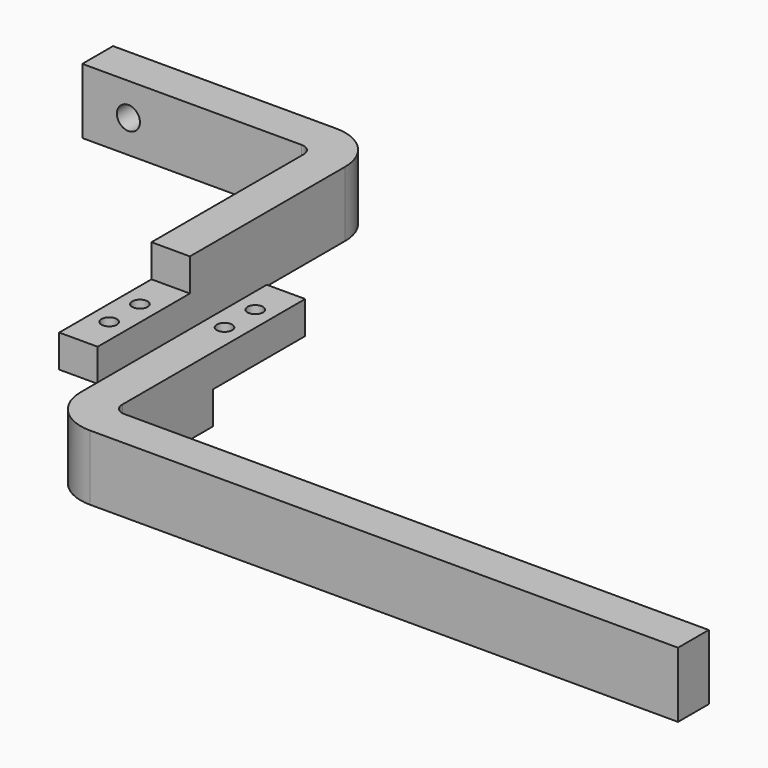
from build123d import *

# Parameters (mm, degrees)
PAD_DEPTH       = 8.5
SKETCH002_W     = 34.899784
SKETCH002_H     = 30
POCKET_DEPTH    = 8.5
SKETCH005_R     = 2
POCKET003_DEPTH = 8.501
SKETCH006_R     = 3
POCKET004_DEPTH = 92.501
FILLET001_R     = 12
FILLET002_R     = 3
PAD001_DEPTH    = 8.5
SKETCH003_W     = 35.43439
SKETCH003_H     = 30
POCKET001_DEPTH = 8.5
SKETCH004_R     = 2
POCKET002_DEPTH = 17.001
FILLET_R        = 12
FILLET003_R     = 3


with BuildPart() as obj1:
    # Sketch → Pad (new body, symmetric)
    with BuildSketch(Plane.XY):
        Polygon((-70, 92.5), (0, 92.5), (0, 0), (-10, 0), (-10, 82.5), (-70, 82.5), align=None)
    extrude(amount=PAD_DEPTH, both=True)

    # Sketch002 → Pocket (cut)
    with BuildSketch(Plane.XY.offset(8.5)):
        with Locations((-6.620676, 15)):
            Rectangle(SKETCH002_W, SKETCH002_H)
    extrude(amount=-POCKET_DEPTH, mode=Mode.SUBTRACT)

    # Sketch005 → Pocket003 (cut, through all)
    with BuildSketch(Plane.XY):
        with Locations((-5, 10)):
            Circle(SKETCH005_R)
        with Locations((-5, 20)):
            Circle(SKETCH005_R)
    extrude(amount=-POCKET003_DEPTH, mode=Mode.SUBTRACT)

    # Sketch006 → Pocket004 (cut, through all)
    with BuildSketch(Plane(origin=(0, 92.5, 0), x_dir=(-1, 0, 0), z_dir=(0, 1, 0))):
        with Locations((58, 0)):
            Circle(SKETCH006_R)
    extrude(amount=-POCKET004_DEPTH, mode=Mode.SUBTRACT)

    # Fillet001
    fillet001_edges = [obj1.edges().sort_by_distance(p)[0] for p in [
        (0, 92.5, 0),
    ]]
    fillet(fillet001_edges, radius=FILLET001_R)

    # Fillet002
    fillet002_edges = [obj1.edges().sort_by_distance(p)[0] for p in [
        (-10, 82.5, 0),
    ]]
    fillet(fillet002_edges, radius=FILLET002_R)


with BuildPart() as obj2:
    # Sketch001 → Pad001 (new body, symmetric)
    with BuildSketch(Plane.XY):
        Polygon((30, 30), (30, -32.5), (185, -32.5), (185, -42.5), (20, -42.5), (20, 30), align=None)
    extrude(amount=PAD001_DEPTH, both=True)

    # Sketch003 → Pocket001 (cut)
    with BuildSketch(Plane(origin=(0, 0, -8.5), x_dir=(1, 0, 0), z_dir=(0, 0, -1))):
        with Locations((32.063894, -15)):
            Rectangle(SKETCH003_W, SKETCH003_H)
    extrude(amount=-POCKET001_DEPTH, mode=Mode.SUBTRACT)

    # Sketch004 → Pocket002 (cut, through all)
    with BuildSketch(Plane.XY.offset(8.5)):
        with Locations((25, 20)):
            Circle(SKETCH004_R)
        with Locations((25, 10)):
            Circle(SKETCH004_R)
    extrude(amount=-POCKET002_DEPTH, mode=Mode.SUBTRACT)

    # Fillet
    fillet_edges = [obj2.edges().sort_by_distance(p)[0] for p in [
        (20, -42.5, 0),
    ]]
    fillet(fillet_edges, radius=FILLET_R)

    # Fillet003
    fillet003_edges = [obj2.edges().sort_by_distance(p)[0] for p in [
        (30, -32.5, 0),
    ]]
    fillet(fillet003_edges, radius=FILLET003_R)


solid = Compound([obj1.part, obj2.part])
